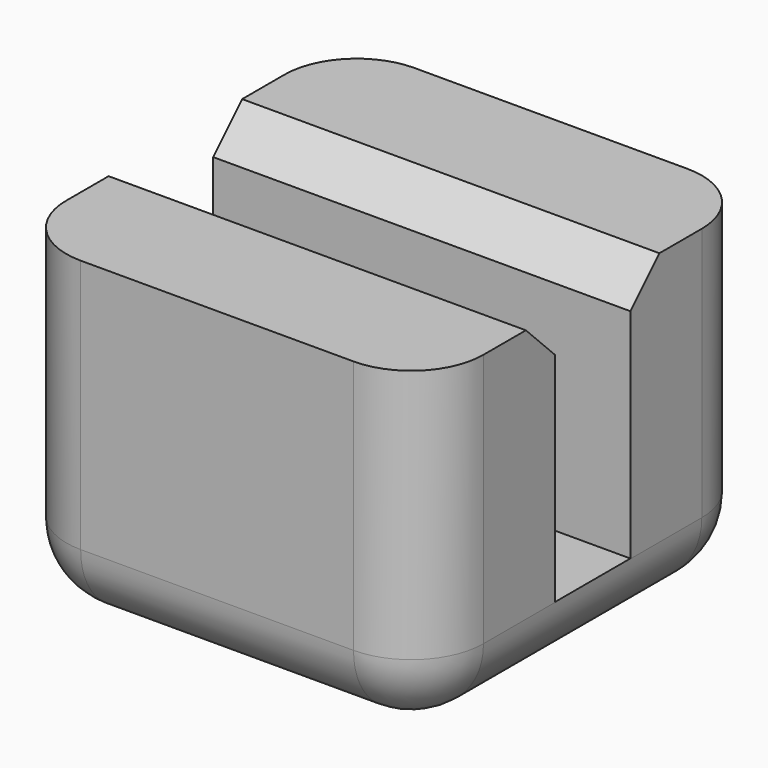
from build123d import *

# Parameters (mm, degrees)
BOX025_W        = 11.5
BOX025_H        = 11.5
BOX025_DEPTH    = 2
BOX023_W        = 11.5
BOX023_H        = 4.45
BOX023_DEPTH    = 7
BOX022_W        = 11.5
BOX022_H        = 4.45
BOX022_DEPTH    = 7
CHAMFER003_SIZE = 1
FILLET008_R     = 1.99


with BuildPart() as beltclipbase:
    # Box025 → Box025 (new body)
    with BuildSketch(Plane(origin=(40, 9, 14), x_dir=(1, 0, 0), z_dir=(0, 0, 1))):
        with Locations((5.75, 5.75)):
            Rectangle(BOX025_W, BOX025_H)
    extrude(amount=BOX025_DEPTH)


with BuildPart() as beltclipright:
    # Box023 → Box023 (new body)
    with BuildSketch(Plane(origin=(40, 16.05, 16), x_dir=(1, 0, 0), z_dir=(0, 0, 1))):
        with Locations((5.75, 2.225)):
            Rectangle(BOX023_W, BOX023_H)
    extrude(amount=BOX023_DEPTH)


with BuildPart() as belt_clip:
    # Box022 → Box022 (new body)
    with BuildSketch(Plane(origin=(40, 9, 16), x_dir=(1, 0, 0), z_dir=(0, 0, 1))):
        with Locations((5.75, 2.225)):
            Rectangle(BOX022_W, BOX022_H)
    extrude(amount=BOX022_DEPTH)

    # Fusion030: union BeltClipBase, BeltClipRight
    add(beltclipbase.part)
    add(beltclipright.part)

    # Chamfer003
    chamfer003_edges = [belt_clip.edges().sort_by_distance(p)[0] for p in [
        (45.75, 16.05, 23),
        (45.75, 13.45, 23),
    ]]
    chamfer(chamfer003_edges, length=CHAMFER003_SIZE)

    # Fillet008
    fillet008_edges = [belt_clip.edges().sort_by_distance(p)[0] for p in [
        (40, 20.5, 19.5),
        (51.5, 20.5, 19.5),
        (40, 14.75, 14),
        (45.75, 20.5, 14),
        (51.5, 14.75, 14),
        (45.75, 9, 14),
        (40, 9, 19.5),
        (51.5, 9, 19.5),
    ]]
    fillet(fillet008_edges, radius=FILLET008_R)


with BuildPart() as belt_clip_1:
    # Fillet008 placement: moved
    add(belt_clip.part.moved(Location((18, 2, 0))))


solid = belt_clip_1.part
